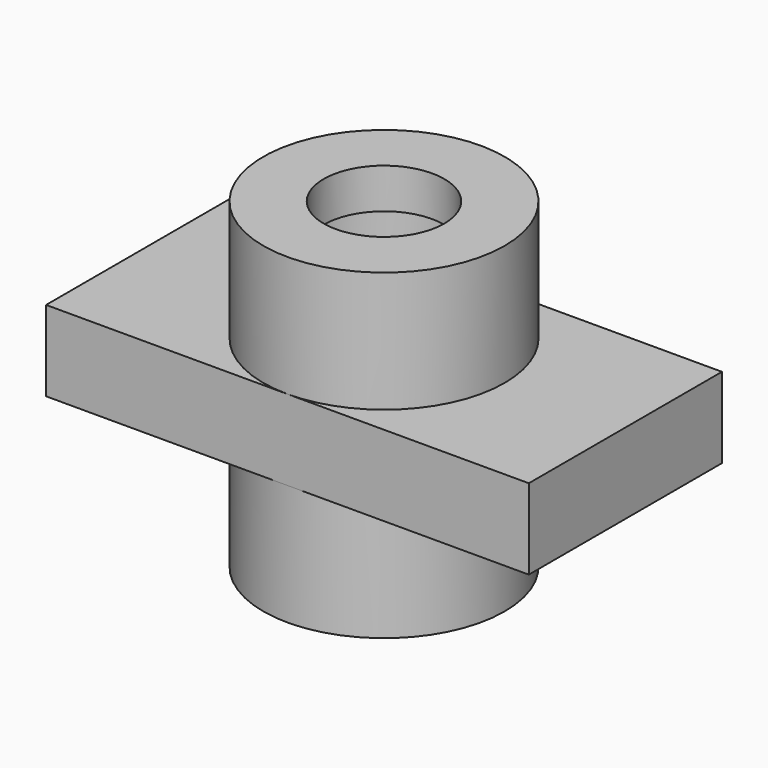
from build123d import *

# Parameters (mm, degrees)
F0_W          = 76.2
F0_H          = 12.7
F1_DEPTH      = 19.05
F2_R          = 19.05
F3_DEPTH      = 19.05
F3_DEPTH_BACK = 31.75
F4_R          = 9.525
F5_DEPTH      = 50.801
F6_W          = 12.7
F6_H          = 6.35


with BuildPart() as f1:
    # F0 (on Front) → F1 (new body, symmetric)
    with BuildSketch(Plane.XZ):
        with Locations((0, 6.35)):
            Rectangle(F0_W, F0_H)
    extrude(amount=F1_DEPTH, both=True)

    # F2 (on face) → F3 (join, two sides)
    with BuildSketch(Plane.XY.offset(12.7)) as f3_sk:
        Circle(F2_R)
    extrude(amount=F3_DEPTH)
    extrude(f3_sk.sketch, amount=-F3_DEPTH_BACK)

    # F4 (on face) → F5 (cut, through all)
    with BuildSketch(Plane.XY.offset(31.75)):
        Circle(F4_R)
    extrude(amount=-F5_DEPTH, mode=Mode.SUBTRACT)

    # F6 (on Front) → F7 (revolve, cut)
    with BuildSketch(Plane.XZ):
        with Locations((6.35, 22.225)):
            Rectangle(F6_W, F6_H)
    revolve(axis=Axis((0, 0, 19.451374), (0, 0, -1)), mode=Mode.SUBTRACT)


solid = f1.part
